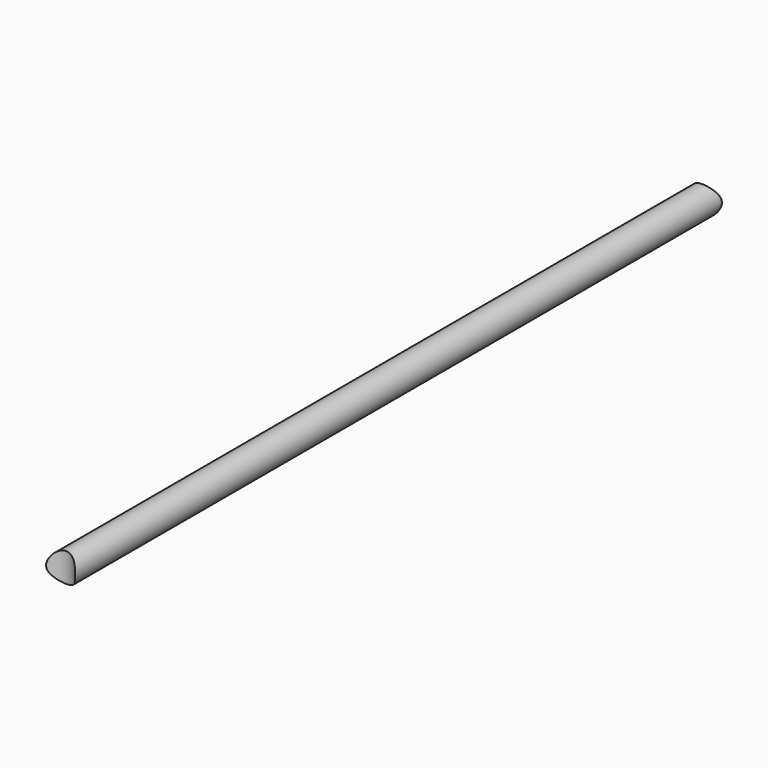
from build123d import *

# Parameters (mm, degrees)
F0_R     = 16.5
F1_DEPTH = 945
F3_DEPTH = 500
F5_DEPTH = 50


with BuildPart() as f1:
    # F0 (on Front) → F1 (new body)
    with BuildSketch(Plane.XZ):
        Circle(F0_R)
    extrude(amount=F1_DEPTH)

    # F2 (on Top) → F3 (cut, symmetric)
    with BuildSketch(Plane.XY):
        with BuildLine():
            Line((0, 0), (-21, 0))
            ThreePointArc((-21, 0), (0, -16.890228), (21, 0))
            Line((21, 0), (0, 0))
        make_face()
    extrude(amount=F3_DEPTH, both=True, mode=Mode.SUBTRACT)

    # F4 (on Top) → F5 (cut, symmetric)
    with BuildSketch(Plane.XY):
        with BuildLine():
            Line((-21, -945), (21, -945))
            ThreePointArc((21, -945), (0, -924), (-21, -945))
        make_face()
    extrude(amount=F5_DEPTH, both=True, mode=Mode.SUBTRACT)


solid = f1.part
